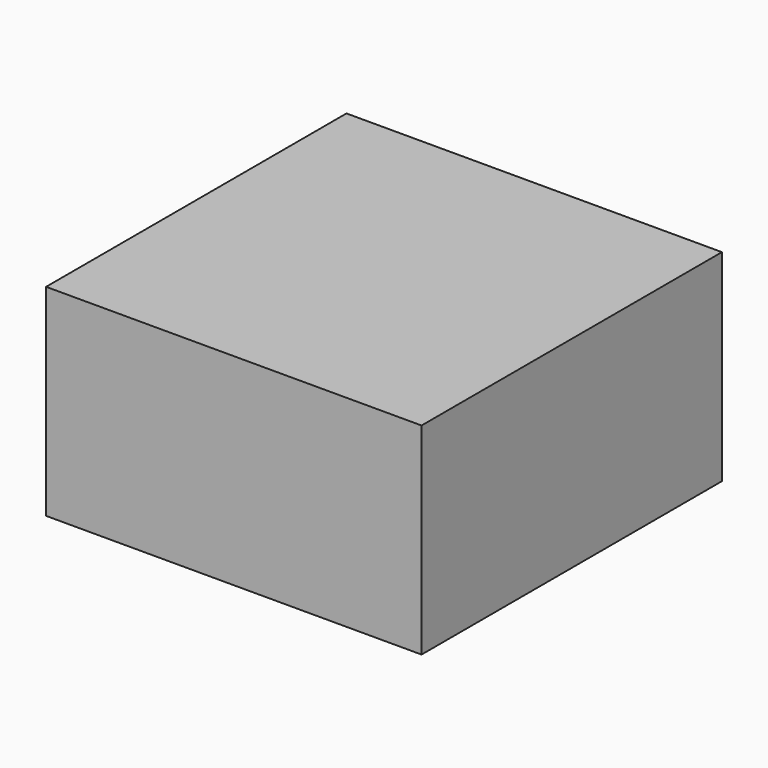
from build123d import *

# Parameters (mm, degrees)
F0_W     = 22.225
F0_H     = 22.225
F1_DEPTH = 11.938
F2_R     = 1.5875
F3_DEPTH = 3.175


with BuildPart() as f1:
    # F0 (on Top) → F1 (new body)
    with BuildSketch(Plane.XY):
        with Locations((-10.368031, 17.720491)):
            Rectangle(F0_W, F0_H)
        with Locations((-10.368031, 17.720491)):
            Rectangle(F0_W, F0_H)
    extrude(amount=F1_DEPTH)

    # F2 (on face) → F3 (join)
    with BuildSketch(Plane(origin=(-21.480531, 0, 0), x_dir=(0, -1, 0), z_dir=(-1, 0, 0))):
        with Locations((-23.635626, 5.858807)):
            Circle(F2_R)
    extrude(amount=F3_DEPTH)


solid = f1.part
